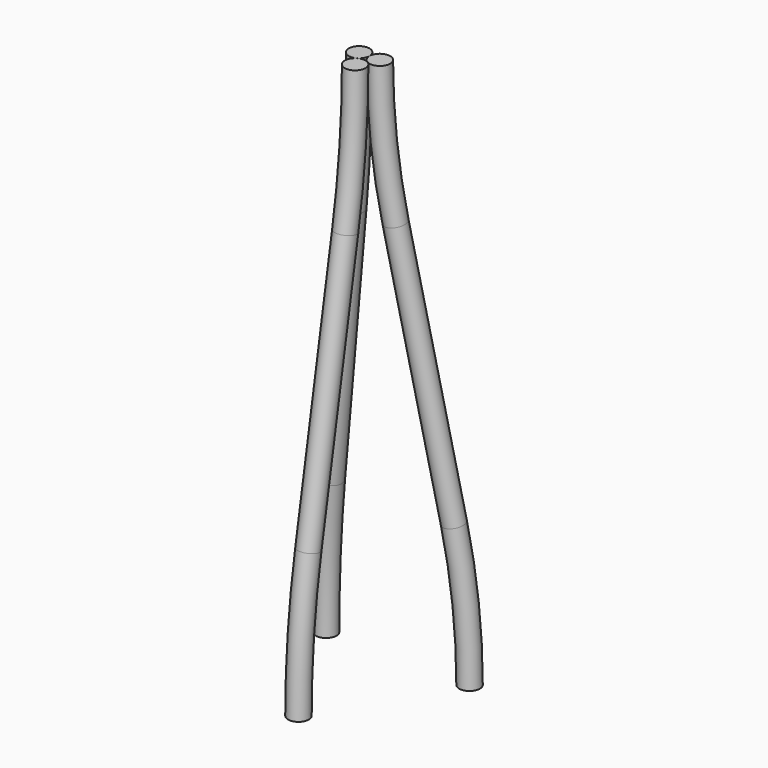
from build123d import *

# Parameters (mm, degrees)
F10_R     = 3.175
F12_COUNT = 3


with BuildPart() as f11:
    # F11: sweep along a path in F3
    with BuildLine(Plane.YZ) as f11_path:
        ThreePointArc((-3.6661742094, 179.6051224214), (-4.6187699943, 157.7870918997), (-7.4693075202, 136.1351097644))
        Line((-7.4693075202, 136.1351097644), (-21.5968666892, 56.0137402936))
        ThreePointArc((-21.5968666892, 56.0137402936), (-24.447404215, 34.3617581583), (-25.4, 12.5437276366))
    # F10 (on plane+point) → F11 (sweep)
    with BuildSketch(Plane.XY.offset(179.6051224214)):
        with Locations((0, -3.6661742094)):
            Circle(F10_R)
    sweep(path=f11_path.line)


with BuildPart() as f12_1:
    # F12: instance of F11
    add(f11.part.rotate(Axis((0, 0, 89.8025612107), (0, 0, 1)), 1 * 360 / F12_COUNT))


with BuildPart() as f12_2:
    # F12: instance of F11
    add(f11.part.rotate(Axis((0, 0, 89.8025612107), (0, 0, 1)), 2 * 360 / F12_COUNT))


solid = Compound([f11.part, f12_1.part, f12_2.part])
